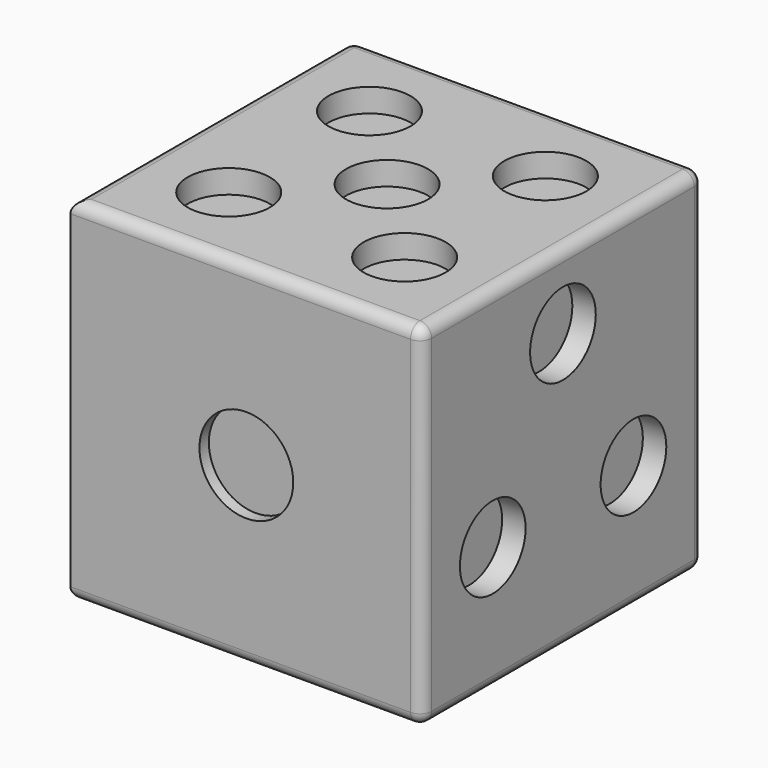
from build123d import *

# Parameters (mm, degrees)
F0_W          = 30
F0_H          = 30
F1_DEPTH      = 15
F1_DEPTH_BACK = 15
F2_R          = 4
F3_DEPTH      = 1
F4_R          = 3.5
F5_DEPTH      = 2
F6_R          = 3.5
F7_DEPTH      = 2
F8_R          = 3.5
F9_DEPTH      = 2
F10_R         = 3.5
F11_DEPTH     = 2
F12_R         = 3.5
F13_DEPTH     = 2
F14_R         = 1


with BuildPart() as f1:
    # F0 (on Top) → F1 (new body, two sides)
    with BuildSketch(Plane.XY) as f1_sk:
        Rectangle(F0_W, F0_H)
    extrude(amount=F1_DEPTH)
    extrude(f1_sk.sketch, amount=-F1_DEPTH_BACK)

    # F2 (on face) → F3 (cut)
    with BuildSketch(Plane.XZ.offset(15)):
        Circle(F2_R)
    extrude(amount=-F3_DEPTH, mode=Mode.SUBTRACT)

    # F4 (on face) → F5 (cut)
    with BuildSketch(Plane(origin=(0, 15, 0), x_dir=(-1, 0, 0), z_dir=(0, 1, 0))):
        with Locations((-6, 8.5)):
            Circle(F4_R)
        with Locations((6, 8.5)):
            Circle(F4_R)
        with Locations((6, 0)):
            Circle(F4_R)
        with Locations((-6, 0)):
            Circle(F4_R)
        with Locations((6, -8.5)):
            Circle(F4_R)
        with Locations((-6, -8.5)):
            Circle(F4_R)
    extrude(amount=-F5_DEPTH, mode=Mode.SUBTRACT)

    # F6 (on face) → F7 (cut)
    with BuildSketch(Plane(origin=(0, 0, -15), x_dir=(1, 0, 0), z_dir=(0, 0, -1))):
        with Locations((0, -7.5)):
            Circle(F6_R)
        with Locations((0, 7.5)):
            Circle(F6_R)
    extrude(amount=-F7_DEPTH, mode=Mode.SUBTRACT)

    # F8 (on face) → F9 (cut)
    with BuildSketch(Plane.XY.offset(15)):
        with Locations((-7.5, -7.5)):
            Circle(F8_R)
        with Locations((-7.5, 7.5)):
            Circle(F8_R)
        Circle(F8_R)
        with Locations((7.5, 7.5)):
            Circle(F8_R)
        with Locations((7.5, -7.5)):
            Circle(F8_R)
    extrude(amount=-F9_DEPTH, mode=Mode.SUBTRACT)

    # F10 (on face) → F11 (cut)
    with BuildSketch(Plane(origin=(-15, 0, 0), x_dir=(0, -1, 0), z_dir=(-1, 0, 0))):
        with Locations((7.5, -7.5)):
            Circle(F10_R)
        with Locations((-7.5, -7.5)):
            Circle(F10_R)
        with Locations((7.5, 7.5)):
            Circle(F10_R)
        with Locations((-7.5, 7.5)):
            Circle(F10_R)
    extrude(amount=-F11_DEPTH, mode=Mode.SUBTRACT)

    # F12 (on face) → F13 (cut)
    with BuildSketch(Plane.YZ.offset(15)):
        with Locations((0, 8.67)):
            Circle(F12_R)
        with Locations((-7.483315, -4.33)):
            Circle(F12_R)
        with Locations((7.516673, -4.310741)):
            Circle(F12_R)
    extrude(amount=-F13_DEPTH, mode=Mode.SUBTRACT)

    # F14
    f14_edges = [f1.edges().sort_by_distance(p)[0] for p in [
        (0, 15, 15),
        (15, 15, 0),
        (0, 15, -15),
        (-15, 15, 0),
        (-15, 0, -15),
        (15, 0, -15),
        (15, -15, 0),
        (15, 0, 15),
        (-15, 0, 15),
        (0, -15, 15),
        (0, -15, -15),
    ]]
    fillet(f14_edges, radius=F14_R)


solid = f1.part
